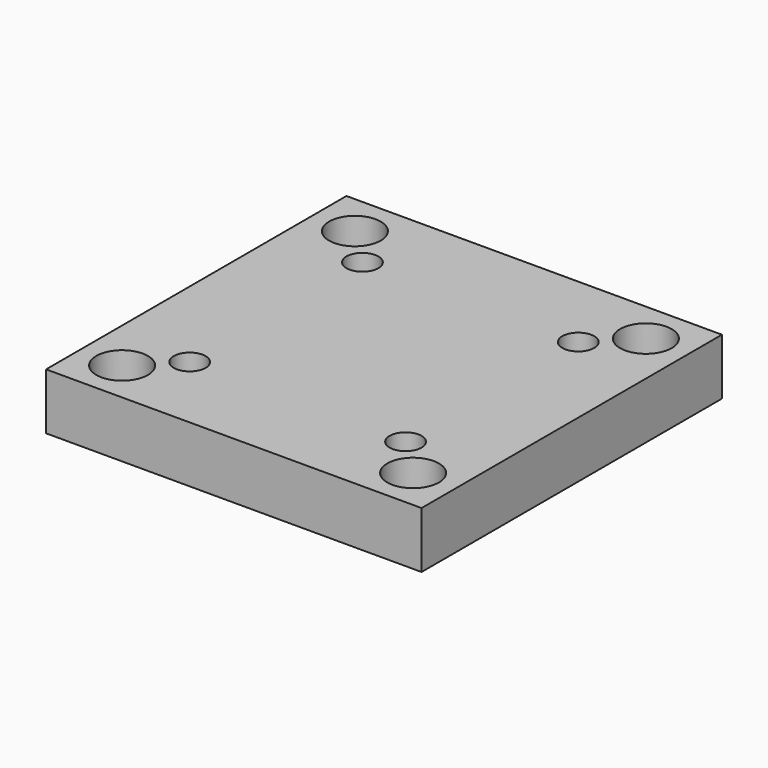
from build123d import *

# Parameters (mm, degrees)
F0_W           = 40
F0_H           = 40
F1_DEPTH       = 6
F4_D           = 3.4
F4_CBORE_D     = 5.5
F4_CBORE_DEPTH = 3
F5_D           = 3.4
F6_DEPTH       = 2.5


with BuildPart() as f1:
    # F0 (on Top) → F1 (new body)
    with BuildSketch(Plane.XY):
        Rectangle(F0_W, F0_H)
    extrude(amount=F1_DEPTH)

    # F4 (through all)
    with Locations(Plane.XY.offset(6)):
        with Locations((-15.5, 15.5), (15.5, 15.5), (15.5, -15.5), (-15.5, -15.5)):
            CounterBoreHole(F4_D / 2, F4_CBORE_D / 2, F4_CBORE_DEPTH)

    # F5 (through all)
    with Locations(Plane(origin=(0, 0, 0), x_dir=(1, 0, 0), z_dir=(0, 0, -1))):
        with Locations((-11.5, -11.5), (11.5, -11.5), (11.5, 11.5), (-11.5, 11.5)):
            Hole(F5_D / 2)

    # F3 (on face) → F6 (cut)
    with BuildSketch(Plane.XY):
        Polygon((-9.8625, 8.663767), (-8.225, 11.5), (-9.8625, 14.336233), (-13.1375, 14.336233), (-14.775, 11.5), (-13.1375, 8.663767), align=None)
        Polygon((-9.8625, -14.336233), (-8.225, -11.5), (-9.8625, -8.663767), (-13.1375, -8.663767), (-14.775, -11.5), (-13.1375, -14.336233), align=None)
        Polygon((8.225, -11.5), (9.8625, -14.336233), (13.1375, -14.336233), (14.775, -11.5), (13.1375, -8.663767), (9.8625, -8.663767), align=None)
        Polygon((8.225, 11.5), (9.8625, 8.663767), (13.1375, 8.663767), (14.775, 11.5), (13.1375, 14.336233), (9.8625, 14.336233), align=None)
    extrude(amount=F6_DEPTH, mode=Mode.SUBTRACT)


solid = f1.part
